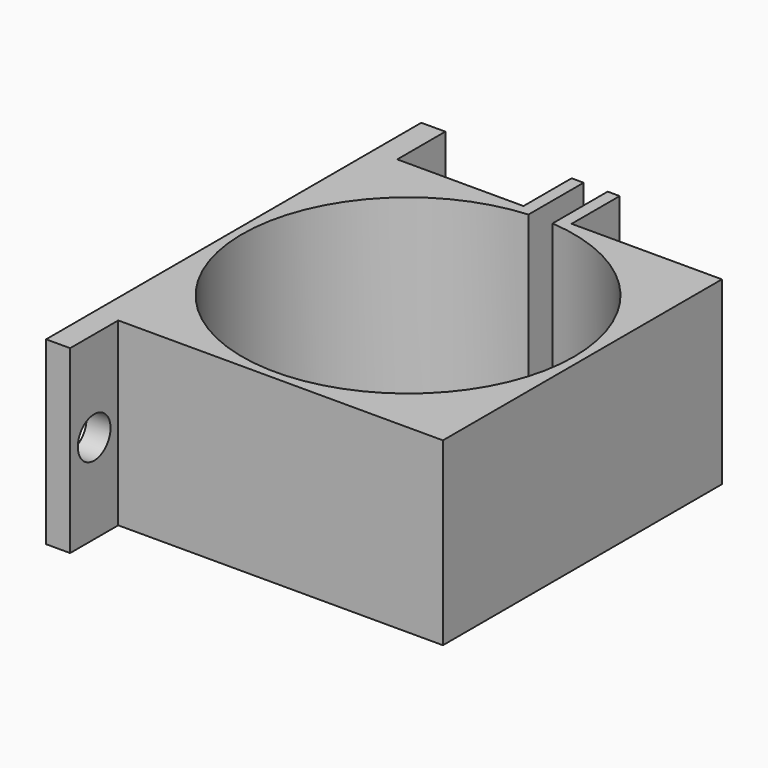
from build123d import *

# Parameters (mm, degrees)
SKETCH_W        = 29
SKETCH_H        = 29
PAD_DEPTH       = 15
SKETCH001_R     = 13.8
POCKET_DEPTH    = 15
SKETCH003_W     = 4
SKETCH003_H     = 15
PAD001_DEPTH    = 5
SKETCH005_W     = 2
SKETCH005_H     = 9.016475
POCKET001_DEPTH = 15
SKETCH006_R     = 1.241628
POCKET002_DEPTH = 5
SKETCH007_W     = 2
SKETCH007_H     = 15
PAD002_DEPTH    = 5
SKETCH008_W     = 2
SKETCH008_H     = 15
PAD003_DEPTH    = 5
SKETCH009_R     = 1.7
POCKET003_DEPTH = 5


with BuildPart() as part:
    # Sketch → Pad (new body)
    with BuildSketch(Plane.XY):
        Rectangle(SKETCH_W, SKETCH_H)
    extrude(amount=PAD_DEPTH)

    # Sketch001 (on Face6 of Pad) → Pocket (cut)
    with BuildSketch(Plane.XY.offset(15)):
        Circle(SKETCH001_R)
    extrude(amount=-POCKET_DEPTH, mode=Mode.SUBTRACT)

    # Sketch003 (on Face1 of Pocket) → Pad001 (join)
    with BuildSketch(Plane(origin=(0, 14.5, 0), x_dir=(-1, 0, 0), z_dir=(0, 1, 0))):
        with Locations((0, 7.5)):
            Rectangle(SKETCH003_W, SKETCH003_H)
    extrude(amount=PAD001_DEPTH)

    # Sketch005 (on Face11 of Pad001) → Pocket001 (cut)
    with BuildSketch(Plane.XY.offset(15)):
        with Locations((0, 17.054208)):
            Rectangle(SKETCH005_W, SKETCH005_H)
    extrude(amount=-POCKET001_DEPTH, mode=Mode.SUBTRACT)

    # Sketch006 (on Face3 of Pocket001) → Pocket002 (cut)
    with BuildSketch(Plane(origin=(-2, 0, 0), x_dir=(0, -1, 0), z_dir=(-1, 0, 0))):
        with Locations((-17.992161, 7.5)):
            Circle(SKETCH006_R)
    extrude(amount=-POCKET002_DEPTH, mode=Mode.SUBTRACT)

    # Sketch007 (on Face1 of Pocket002) → Pad002 (join)
    with BuildSketch(Plane(origin=(0, 14.5, 0), x_dir=(-1, 0, 0), z_dir=(0, 1, 0))):
        with Locations((13.5, 7.5)):
            Rectangle(SKETCH007_W, SKETCH007_H)
    extrude(amount=PAD002_DEPTH)

    # Sketch008 (on Face7 of Pad002) → Pad003 (join)
    with BuildSketch(Plane.XZ.offset(14.5)):
        with Locations((-13.5, 7.5)):
            Rectangle(SKETCH008_W, SKETCH008_H)
    extrude(amount=PAD003_DEPTH)

    # Sketch009 (on Face26 of Pad003) → Pocket003 (cut)
    with BuildSketch(Plane(origin=(-14.5, 0, 0), x_dir=(0, -1, 0), z_dir=(-1, 0, 0))):
        with Locations((-17, 7.453879)):
            Circle(SKETCH009_R)
        with Locations((17, 7.453879)):
            Circle(SKETCH009_R)
    extrude(amount=-POCKET003_DEPTH, mode=Mode.SUBTRACT)


solid = part.part
